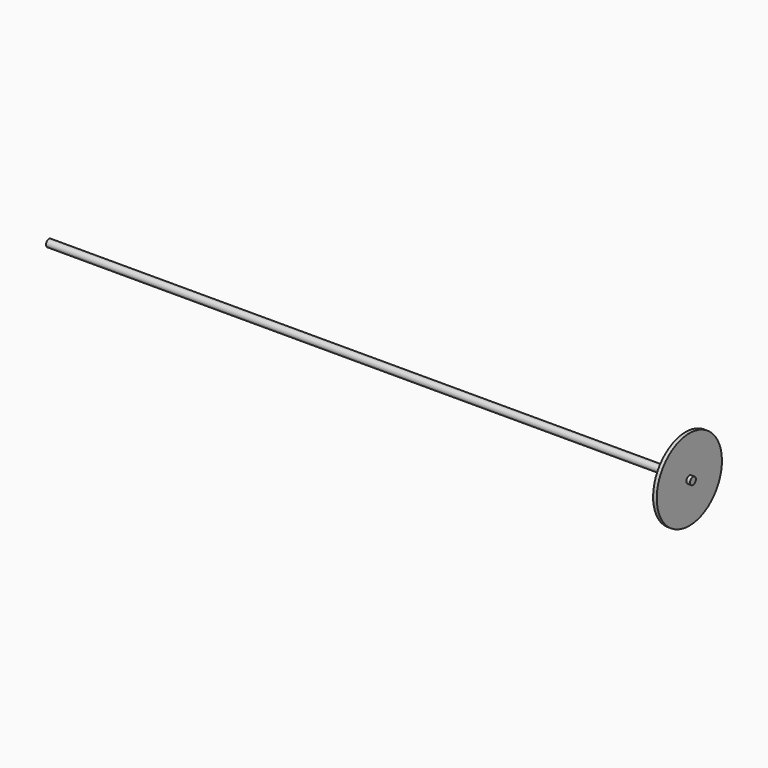
from build123d import *

# Parameters (mm, degrees)
CYLINDER_R           = 56
CYLINDER_DEPTH       = 5
CYLINDER_PITCH_ANGLE = 90
SKETCH001_R          = 5
PAD_DEPTH            = 10
PAD_DEPTH_BACK       = 875


with BuildPart() as flange_for_rod:
    # Cylinder → Cylinder (new body)
    with BuildSketch(Plane.XY):
        Circle(CYLINDER_R)
    extrude(amount=CYLINDER_DEPTH)


with BuildPart() as flange_for_rod_1:
    # Cylinder pitch: moved
    add(flange_for_rod.part.rotate(Axis((0, 0, 0), (0, 1, 0)), CYLINDER_PITCH_ANGLE))


with BuildPart() as flange_for_rod_2:
    # Cylinder placement: moved
    add(flange_for_rod_1.part)


with BuildPart() as rod_flange:
    # Sketch001 → Pad (new body, two sides)
    with BuildSketch(Plane.YZ) as pad_sk:
        Circle(SKETCH001_R)
    extrude(amount=PAD_DEPTH)
    extrude(pad_sk.sketch, amount=-PAD_DEPTH_BACK)

    # Fusion: union Flange_for_Rod
    add(flange_for_rod_2.part)


with BuildPart() as rod_flange_1:
    # Fusion placement: moved
    add(rod_flange.part.moved(Location((850, 0, 0))))


solid = rod_flange_1.part
